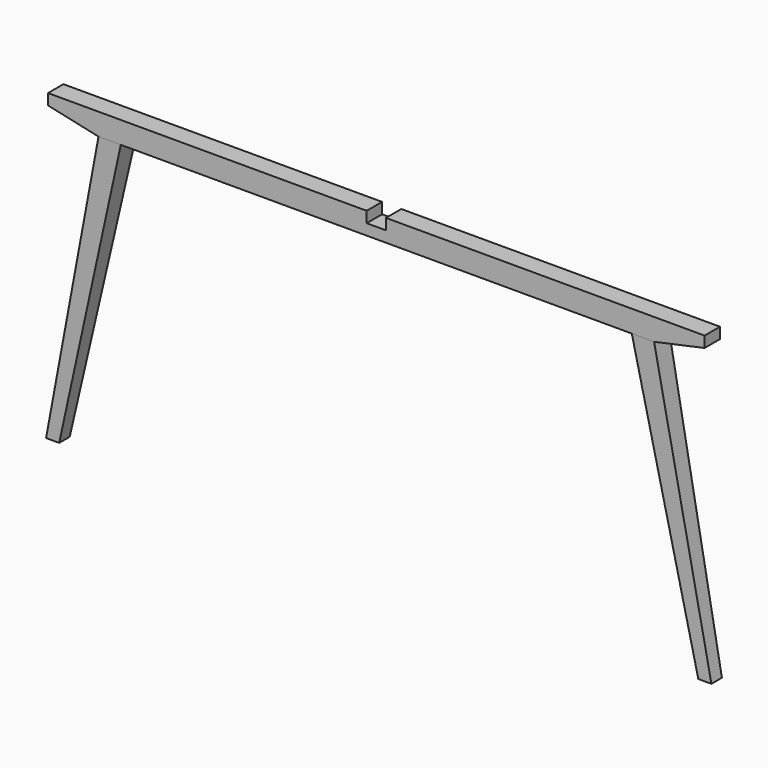
from build123d import *

# Parameters (mm, degrees)
F1_DEPTH = 44
F3_DEPTH = 904


with BuildPart() as f1:
    # F0 (on Front) → F1 (new body)
    with BuildSketch(Plane.XZ):
        Polygon((-22, -25), (-22, 0), (-750, 0), (-750, -25), (-634.642857, -50), (-760, -700), (-730, -700), (-583.721499, -50), (0, -50), (583.721499, -50), (730, -700), (760, -700), (634.642857, -50), (750, -25), (750, 0), (22, 0), (22, -25), (0, -25), align=None)
    extrude(amount=F1_DEPTH)

    # F2 (on Right) → F3 (cut, symmetric)
    with BuildSketch(Plane.YZ):
        Polygon((0, -700), (0, -50), (-7, -700), align=None)
        Polygon((-44, -700), (-37, -700), (-44, -50), align=None)
    extrude(amount=F3_DEPTH, both=True, mode=Mode.SUBTRACT)


solid = f1.part
